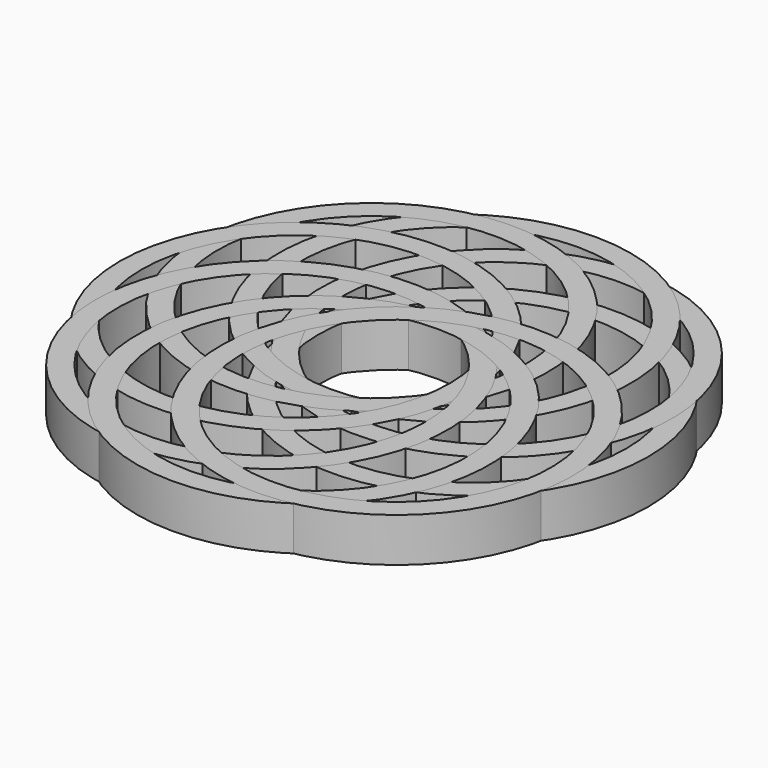
from build123d import *

# Parameters (mm, degrees)
F0_R     = 25.4
F1_DEPTH = 6.35
F2_R     = 22.225
F3_DEPTH = 25.4
F5_COUNT = 8


with BuildPart() as f1:
    # F0 (on Top) → F1 (new body)
    with BuildSketch(Plane.XY):
        Circle(F0_R)
    extrude(amount=F1_DEPTH)

    # F2 (on Top) → F3 (cut)
    with BuildSketch(Plane.XY):
        Circle(F2_R)
    extrude(amount=F3_DEPTH, mode=Mode.SUBTRACT)


with BuildPart() as f5_1:
    # F5: instance of F1
    add(f1.part.rotate(Axis((-12.725691, 0, 3.411755), (0, 0, 1)), 1 * 360 / F5_COUNT))


with BuildPart() as f5_2:
    # F5: instance of F1
    add(f1.part.rotate(Axis((-12.725691, 0, 3.411755), (0, 0, 1)), 2 * 360 / F5_COUNT))


with BuildPart() as f5_3:
    # F5: instance of F1
    add(f1.part.rotate(Axis((-12.725691, 0, 3.411755), (0, 0, 1)), 3 * 360 / F5_COUNT))


with BuildPart() as f5_4:
    # F5: instance of F1
    add(f1.part.rotate(Axis((-12.725691, 0, 3.411755), (0, 0, 1)), 4 * 360 / F5_COUNT))


with BuildPart() as f5_5:
    # F5: instance of F1
    add(f1.part.rotate(Axis((-12.725691, 0, 3.411755), (0, 0, 1)), 5 * 360 / F5_COUNT))


with BuildPart() as f5_6:
    # F5: instance of F1
    add(f1.part.rotate(Axis((-12.725691, 0, 3.411755), (0, 0, 1)), 6 * 360 / F5_COUNT))


with BuildPart() as f5_7:
    # F5: instance of F1
    add(f1.part.rotate(Axis((-12.725691, 0, 3.411755), (0, 0, 1)), 7 * 360 / F5_COUNT))


solid = Compound([f1.part, f5_1.part, f5_2.part, f5_3.part, f5_4.part, f5_5.part, f5_6.part, f5_7.part])
